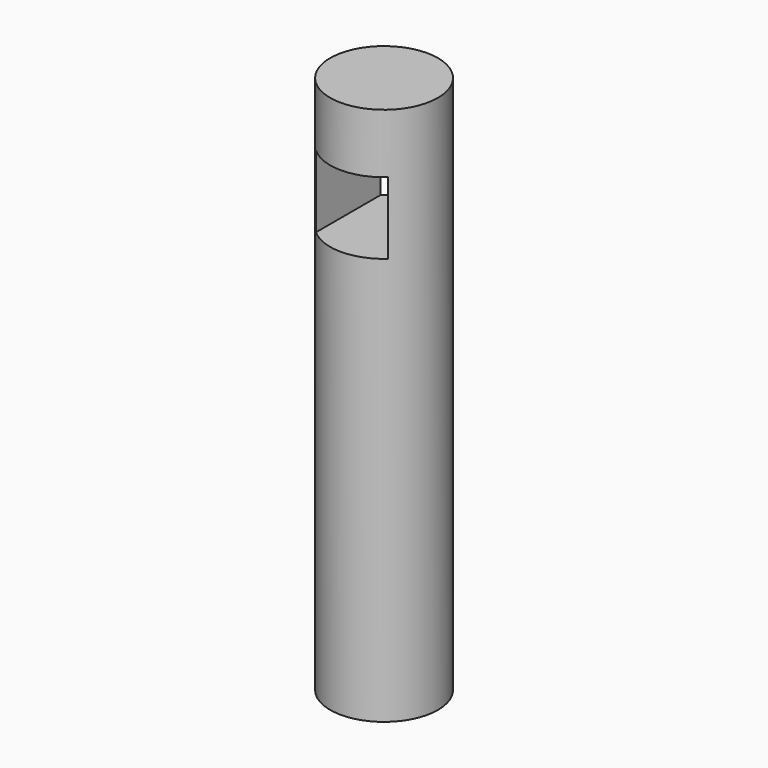
from build123d import *

# Parameters (mm, degrees)
F0_R     = 15
F1_DEPTH = 150
F2_W     = 20
F2_H     = 20
F3_DEPTH = 25


with BuildPart() as f1:
    # F0 (on Top) → F1 (new body)
    with BuildSketch(Plane.XY):
        Circle(F0_R)
    extrude(amount=F1_DEPTH)

    # F2 (on Front) → F3 (cut, symmetric)
    with BuildSketch(Plane.XZ):
        with Locations((0, 123.467321)):
            Rectangle(F2_W, F2_H)
    extrude(amount=F3_DEPTH, both=True, mode=Mode.SUBTRACT)


solid = f1.part
